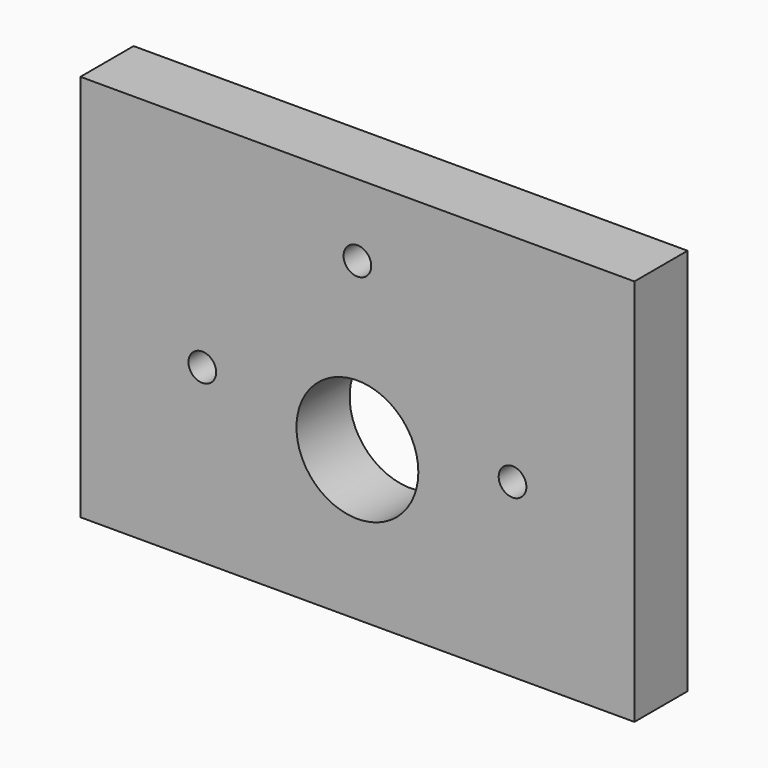
from build123d import *

# Parameters (mm, degrees)
F0_W     = 100
F0_H     = 70
F0_R     = 2.5
F0_R_2   = 11
F1_DEPTH = 12


with BuildPart() as f1:
    # F0 (on Front) → F1 (new body)
    with BuildSketch(Plane.XZ):
        with Locations((50, 35)):
            Rectangle(F0_W, F0_H)
        with Locations((22, 31)):
            Circle(F0_R, mode=Mode.SUBTRACT)
        with Locations((50, 27)):
            Circle(F0_R_2, mode=Mode.SUBTRACT)
        with Locations((78, 31)):
            Circle(F0_R, mode=Mode.SUBTRACT)
        with Locations((50, 57)):
            Circle(F0_R, mode=Mode.SUBTRACT)
    extrude(amount=F1_DEPTH)


solid = f1.part
